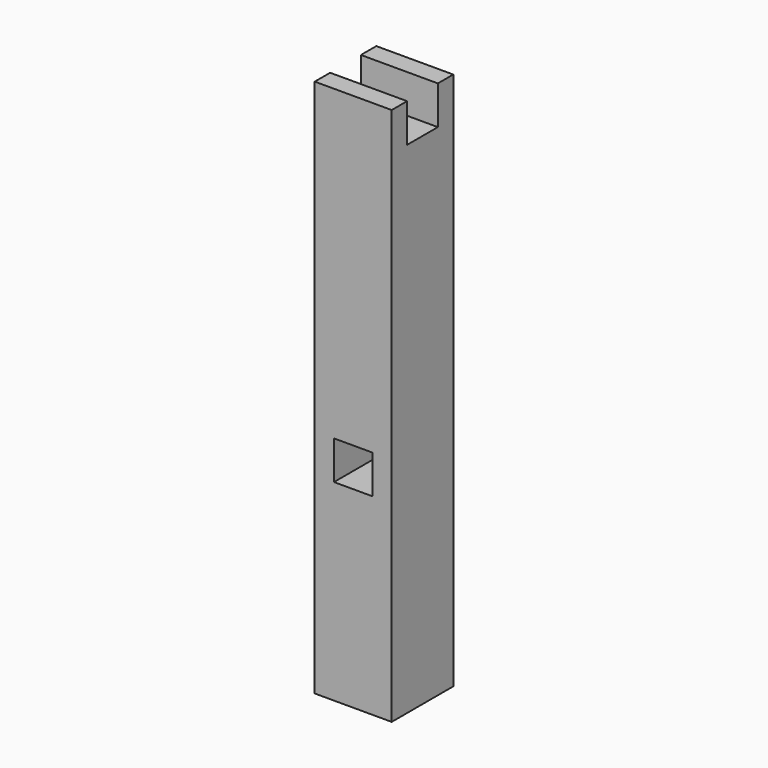
from build123d import *

# Parameters (mm, degrees)
F0_W     = 101.6
F0_H     = 711.2
F1_DEPTH = 101.6
F2_W     = 101.6
F2_H     = 50.8
F3_DEPTH = 50.8
F5_DEPTH = 101.6


with BuildPart() as f1:
    # F0 (on Front) → F1 (new body)
    with BuildSketch(Plane.XZ):
        Rectangle(F0_W, F0_H)
    extrude(amount=F1_DEPTH)

    # F2 (on face) → F3 (cut)
    with BuildSketch(Plane.XY.offset(355.6)):
        with Locations((0, -50.8)):
            Rectangle(F2_W, F2_H)
    extrude(amount=-F3_DEPTH, mode=Mode.SUBTRACT)

    # F4 (on face) → F5 (cut)
    with BuildSketch(Plane.XZ.offset(101.6)):
        Polygon((0, -101.6), (25.4, -101.6), (25.4, -50.8), (-25.4, -50.8), (-25.4, -101.6), align=None)
    extrude(amount=-F5_DEPTH, mode=Mode.SUBTRACT)


solid = f1.part
